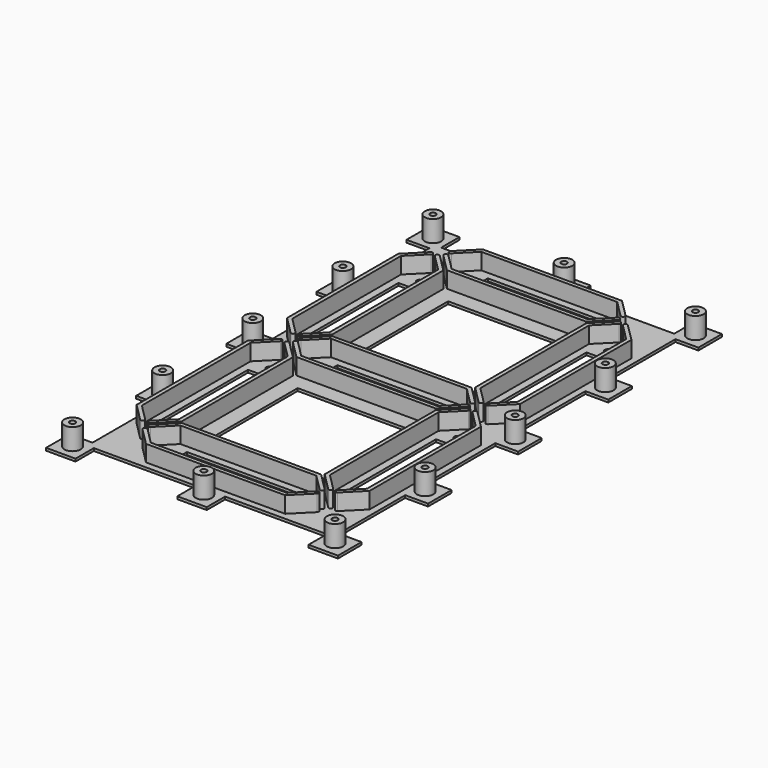
from build123d import *

# Parameters (mm, degrees)
SKETCH004_R     = 1.75
SKETCH004_W     = 13.75
SKETCH004_H     = 68
SKETCH004_W_2   = 68
SKETCH004_H_2   = 13.75
PAD_DEPTH       = 14.6
SKETCH005_W     = 178.5
SKETCH005_H     = 293.5
SKETCH005_R     = 5
POCKET_DEPTH    = 13
SKETCH006_W     = 142.5
SKETCH006_H     = 257.5
POCKET001_DEPTH = 3


with BuildPart() as part:
    # Sketch004 → Pad (new body)
    with BuildSketch(Plane.XY):
        Polygon((-71.25, 132.75), (-71.25, 146.75), (-89.25, 146.75), (-89.25, 128.75), (-75.25, 128.75), (-75.25, 77.875), (-89.25, 77.875), (-89.25, 59.875), (-75.25, 59.875), (-75.25, 9), (-89.25, 9), (-89.25, -9), (-75.25, -9), (-75.25, -59.875), (-89.25, -59.875), (-89.25, -77.875), (-75.25, -77.875), (-75.25, -128.75), (-89.25, -128.75), (-89.25, -146.75), (-71.25, -146.75), (-71.25, -132.75), (-9, -132.75), (-9, -146.75), (9, -146.75), (9, -132.75), (71.25, -132.75), (71.25, -146.75), (89.25, -146.75), (89.25, -128.75), (75.25, -128.75), (75.25, -77.875), (89.25, -77.875), (89.25, -59.875), (75.25, -59.875), (75.25, -9), (89.25, -9), (89.25, 9), (75.25, 9), (75.25, 59.875), (89.25, 59.875), (89.25, 77.875), (75.25, 77.875), (75.25, 128.75), (89.25, 128.75), (89.25, 146.75), (71.25, 146.75), (71.25, 132.75), (9, 132.75), (9, 146.75), (-9, 146.75), (-9, 132.75), align=None)
        with Locations((-80.25, 137.75)):
            Circle(SKETCH004_R, mode=Mode.SUBTRACT)
        with Locations((57.5, 99)):
            Circle(SKETCH004_R, mode=Mode.SUBTRACT)
        with Locations((80.25, 68.875)):
            Circle(SKETCH004_R, mode=Mode.SUBTRACT)
        with Locations((57.5, 16)):
            Circle(SKETCH004_R, mode=Mode.SUBTRACT)
        with Locations((80.25, 0)):
            Circle(SKETCH004_R, mode=Mode.SUBTRACT)
        with Locations((57.5, -16)):
            Circle(SKETCH004_R, mode=Mode.SUBTRACT)
        with Locations((-41.5, 115)):
            Circle(SKETCH004_R, mode=Mode.SUBTRACT)
        with Locations((80.25, 137.75)):
            Circle(SKETCH004_R, mode=Mode.SUBTRACT)
        with Locations((-41.5, -115)):
            Circle(SKETCH004_R, mode=Mode.SUBTRACT)
        with Locations((0, -137.75)):
            Circle(SKETCH004_R, mode=Mode.SUBTRACT)
        with Locations((80.25, -137.75)):
            Circle(SKETCH004_R, mode=Mode.SUBTRACT)
        with Locations((80.25, -68.875)):
            Circle(SKETCH004_R, mode=Mode.SUBTRACT)
        with Locations((0, 137.75)):
            Circle(SKETCH004_R, mode=Mode.SUBTRACT)
        with Locations((-80.25, -68.875)):
            Circle(SKETCH004_R, mode=Mode.SUBTRACT)
        with Locations((-80.25, -137.75)):
            Circle(SKETCH004_R, mode=Mode.SUBTRACT)
        with Locations((-57.5, -99)):
            Circle(SKETCH004_R, mode=Mode.SUBTRACT)
        with Locations((41.5, -115)):
            Circle(SKETCH004_R, mode=Mode.SUBTRACT)
        with Locations((57.5, -99)):
            Circle(SKETCH004_R, mode=Mode.SUBTRACT)
        with Locations((-57.5, -16)):
            Circle(SKETCH004_R, mode=Mode.SUBTRACT)
        with Locations((-80.25, 0)):
            Circle(SKETCH004_R, mode=Mode.SUBTRACT)
        with Locations((-80.25, 68.875)):
            Circle(SKETCH004_R, mode=Mode.SUBTRACT)
        with Locations((-57.5, 99)):
            Circle(SKETCH004_R, mode=Mode.SUBTRACT)
        with Locations((41.5, 115)):
            Circle(SKETCH004_R, mode=Mode.SUBTRACT)
        with Locations((-41.5, 0)):
            Circle(SKETCH004_R, mode=Mode.SUBTRACT)
        with Locations((41.5, 0)):
            Circle(SKETCH004_R, mode=Mode.SUBTRACT)
        with Locations((-57.5, 16)):
            Circle(SKETCH004_R, mode=Mode.SUBTRACT)
        with Locations((-57.5, 57.5)):
            Rectangle(SKETCH004_W, SKETCH004_H, mode=Mode.SUBTRACT)
        with Locations((0, 115)):
            Rectangle(SKETCH004_W_2, SKETCH004_H_2, mode=Mode.SUBTRACT)
        with Locations((57.5, 57.5)):
            Rectangle(SKETCH004_W, SKETCH004_H, mode=Mode.SUBTRACT)
        Rectangle(SKETCH004_W_2, SKETCH004_H_2, mode=Mode.SUBTRACT)
        with Locations((-57.5, -57.5)):
            Rectangle(SKETCH004_W, SKETCH004_H, mode=Mode.SUBTRACT)
        with Locations((57.5, -57.5)):
            Rectangle(SKETCH004_W, SKETCH004_H, mode=Mode.SUBTRACT)
        with Locations((0, -115)):
            Rectangle(SKETCH004_W_2, SKETCH004_H_2, mode=Mode.SUBTRACT)
        with Locations((0, 57.5)):
            Rectangle(SKETCH004_W_2, SKETCH004_H, mode=Mode.SUBTRACT)
        with Locations((0, -57.5)):
            Rectangle(SKETCH004_W_2, SKETCH004_H, mode=Mode.SUBTRACT)
    extrude(amount=PAD_DEPTH)

    # Sketch005 (on Face116 of Pad) → Pocket (cut)
    with BuildSketch(Plane.XY.offset(14.6)):
        Rectangle(SKETCH005_W, SKETCH005_H)
        with Locations((-80.25, 137.75)):
            Circle(SKETCH005_R, mode=Mode.SUBTRACT)
        with Locations((80.25, 137.75)):
            Circle(SKETCH005_R, mode=Mode.SUBTRACT)
        with Locations((0, 137.75)):
            Circle(SKETCH005_R, mode=Mode.SUBTRACT)
        with Locations((-80.25, 0)):
            Circle(SKETCH005_R, mode=Mode.SUBTRACT)
        with Locations((-80.25, -137.75)):
            Circle(SKETCH005_R, mode=Mode.SUBTRACT)
        with Locations((-80.25, -68.875)):
            Circle(SKETCH005_R, mode=Mode.SUBTRACT)
        with Locations((80.25, 68.875)):
            Circle(SKETCH005_R, mode=Mode.SUBTRACT)
        with Locations((0, -137.75)):
            Circle(SKETCH005_R, mode=Mode.SUBTRACT)
        with Locations((80.25, -68.875)):
            Circle(SKETCH005_R, mode=Mode.SUBTRACT)
        with Locations((80.25, -137.75)):
            Circle(SKETCH005_R, mode=Mode.SUBTRACT)
        with Locations((80.25, 0)):
            Circle(SKETCH005_R, mode=Mode.SUBTRACT)
        with Locations((-80.25, 68.875)):
            Circle(SKETCH005_R, mode=Mode.SUBTRACT)
        with BuildLine():
            Line((58.7, -5.8), (68.85, -15.95))
            Line((68.85, -15.95), (68.85, -99.05))
            Line((68.85, -99.05), (58.7, -109.2))
            ThreePointArc((58.7, -109.2), (58.7, -110.897056), (60.397056, -110.897056))
            Line((71.25, -100.044113), (60.397056, -110.897056))
            Line((71.25, -14.955887), (71.25, -100.044113))
            Line((60.397056, -4.102944), (71.25, -14.955887))
            ThreePointArc((60.397056, -4.102944), (58.7, -4.102944), (58.7, -5.8))
        make_face(mode=Mode.SUBTRACT)
        with BuildLine():
            Line((56.3, -5.8), (46.15, -15.95))
            Line((46.15, -15.95), (46.15, -99.05))
            Line((46.15, -99.05), (56.3, -109.2))
            ThreePointArc((54.602944, -110.897056), (56.3, -110.897056), (56.3, -109.2))
            Line((54.602944, -110.897056), (43.75, -100.044113))
            Line((43.75, -100.044113), (43.75, -14.955887))
            Line((43.75, -14.955887), (54.602944, -4.102944))
            ThreePointArc((56.3, -5.8), (56.3, -4.102944), (54.602944, -4.102944))
        make_face(mode=Mode.SUBTRACT)
        with BuildLine():
            Line((-51.7, 116.2), (-41.55, 126.35))
            Line((-41.55, 126.35), (41.55, 126.35))
            Line((41.55, 126.35), (51.7, 116.2))
            ThreePointArc((51.7, 116.2), (53.397056, 116.2), (53.397056, 117.897056))
            Line((42.544113, 128.75), (53.397056, 117.897056))
            Line((-42.544113, 128.75), (42.544113, 128.75))
            Line((-53.397056, 117.897056), (-42.544113, 128.75))
            ThreePointArc((-53.397056, 117.897056), (-53.397056, 116.2), (-51.7, 116.2))
        make_face(mode=Mode.SUBTRACT)
        with BuildLine():
            Line((-51.7, 113.8), (-41.55, 103.65))
            Line((-41.55, 103.65), (41.55, 103.65))
            Line((41.55, 103.65), (51.7, 113.8))
            ThreePointArc((53.397056, 112.102944), (53.397056, 113.8), (51.7, 113.8))
            Line((53.397056, 112.102944), (42.544113, 101.25))
            Line((42.544113, 101.25), (-42.544113, 101.25))
            Line((-42.544113, 101.25), (-53.397056, 112.102944))
            ThreePointArc((-51.7, 113.8), (-53.397056, 113.8), (-53.397056, 112.102944))
        make_face(mode=Mode.SUBTRACT)
        with BuildLine():
            Line((-51.7, 1.2), (-41.55, 11.35))
            Line((-41.55, 11.35), (41.55, 11.35))
            Line((41.55, 11.35), (51.7, 1.2))
            ThreePointArc((51.7, 1.2), (53.397056, 1.2), (53.397056, 2.897056))
            Line((42.544113, 13.75), (53.397056, 2.897056))
            Line((-42.544113, 13.75), (42.544113, 13.75))
            Line((-53.397056, 2.897056), (-42.544113, 13.75))
            ThreePointArc((-53.397056, 2.897056), (-53.397056, 1.2), (-51.7, 1.2))
        make_face(mode=Mode.SUBTRACT)
        with BuildLine():
            Line((-51.7, -1.2), (-41.55, -11.35))
            Line((-41.55, -11.35), (41.55, -11.35))
            Line((41.55, -11.35), (51.7, -1.2))
            ThreePointArc((53.397056, -2.897056), (53.397056, -1.2), (51.7, -1.2))
            Line((53.397056, -2.897056), (42.544113, -13.75))
            Line((42.544113, -13.75), (-42.544113, -13.75))
            Line((-42.544113, -13.75), (-53.397056, -2.897056))
            ThreePointArc((-51.7, -1.2), (-53.397056, -1.2), (-53.397056, -2.897056))
        make_face(mode=Mode.SUBTRACT)
        with BuildLine():
            Line((-51.7, -113.8), (-41.55, -103.65))
            Line((-41.55, -103.65), (41.55, -103.65))
            Line((41.55, -103.65), (51.7, -113.8))
            ThreePointArc((51.7, -113.8), (53.397056, -113.8), (53.397056, -112.102944))
            Line((42.544113, -101.25), (53.397056, -112.102944))
            Line((-42.544113, -101.25), (42.544113, -101.25))
            Line((-53.397056, -112.102944), (-42.544113, -101.25))
            ThreePointArc((-53.397056, -112.102944), (-53.397056, -113.8), (-51.7, -113.8))
        make_face(mode=Mode.SUBTRACT)
        with BuildLine():
            Line((-51.7, -116.2), (-41.55, -126.35))
            Line((-41.55, -126.35), (41.55, -126.35))
            Line((41.55, -126.35), (51.7, -116.2))
            ThreePointArc((53.397056, -117.897056), (53.397056, -116.2), (51.7, -116.2))
            Line((53.397056, -117.897056), (42.544113, -128.75))
            Line((42.544113, -128.75), (-42.544113, -128.75))
            Line((-42.544113, -128.75), (-53.397056, -117.897056))
            ThreePointArc((-51.7, -116.2), (-53.397056, -116.2), (-53.397056, -117.897056))
        make_face(mode=Mode.SUBTRACT)
        with BuildLine():
            Line((-56.3, -5.8), (-46.15, -15.95))
            Line((-46.15, -15.95), (-46.15, -99.05))
            Line((-46.15, -99.05), (-56.3, -109.2))
            ThreePointArc((-56.3, -109.2), (-56.3, -110.897056), (-54.602944, -110.897056))
            Line((-43.75, -100.044113), (-54.602944, -110.897056))
            Line((-43.75, -14.955887), (-43.75, -100.044113))
            Line((-54.602944, -4.102944), (-43.75, -14.955887))
            ThreePointArc((-54.602944, -4.102944), (-56.3, -4.102944), (-56.3, -5.8))
        make_face(mode=Mode.SUBTRACT)
        with BuildLine():
            Line((-58.7, -5.8), (-68.85, -15.95))
            Line((-68.85, -15.95), (-68.85, -99.05))
            Line((-68.85, -99.05), (-58.7, -109.2))
            ThreePointArc((-60.397056, -110.897056), (-58.7, -110.897056), (-58.7, -109.2))
            Line((-60.397056, -110.897056), (-71.25, -100.044113))
            Line((-71.25, -100.044113), (-71.25, -14.955887))
            Line((-71.25, -14.955887), (-60.397056, -4.102944))
            ThreePointArc((-58.7, -5.8), (-58.7, -4.102944), (-60.397056, -4.102944))
        make_face(mode=Mode.SUBTRACT)
        with BuildLine():
            Line((-56.3, 109.2), (-46.15, 99.05))
            Line((-46.15, 99.05), (-46.15, 15.95))
            Line((-46.15, 15.95), (-56.3, 5.8))
            ThreePointArc((-56.3, 5.8), (-56.3, 4.102944), (-54.602944, 4.102944))
            Line((-43.75, 14.955887), (-54.602944, 4.102944))
            Line((-43.75, 100.044113), (-43.75, 14.955887))
            Line((-54.602944, 110.897056), (-43.75, 100.044113))
            ThreePointArc((-54.602944, 110.897056), (-56.3, 110.897056), (-56.3, 109.2))
        make_face(mode=Mode.SUBTRACT)
        with BuildLine():
            Line((-58.7, 109.2), (-68.85, 99.05))
            Line((-68.85, 99.05), (-68.85, 15.95))
            Line((-68.85, 15.95), (-58.7, 5.8))
            ThreePointArc((-60.397056, 4.102944), (-58.7, 4.102944), (-58.7, 5.8))
            Line((-60.397056, 4.102944), (-71.25, 14.955887))
            Line((-71.25, 14.955887), (-71.25, 100.044113))
            Line((-71.25, 100.044113), (-60.397056, 110.897056))
            ThreePointArc((-58.7, 109.2), (-58.7, 110.897056), (-60.397056, 110.897056))
        make_face(mode=Mode.SUBTRACT)
        with BuildLine():
            Line((58.7, 109.2), (68.85, 99.05))
            Line((68.85, 99.05), (68.85, 15.95))
            Line((68.85, 15.95), (58.7, 5.8))
            ThreePointArc((58.7, 5.8), (58.7, 4.102944), (60.397056, 4.102944))
            Line((71.25, 14.955887), (60.397056, 4.102944))
            Line((71.25, 100.044113), (71.25, 14.955887))
            Line((60.397056, 110.897056), (71.25, 100.044113))
            ThreePointArc((60.397056, 110.897056), (58.7, 110.897056), (58.7, 109.2))
        make_face(mode=Mode.SUBTRACT)
        with BuildLine():
            Line((56.3, 109.2), (46.15, 99.05))
            Line((46.15, 99.05), (46.15, 15.95))
            Line((46.15, 15.95), (56.3, 5.8))
            ThreePointArc((54.602944, 4.102944), (56.3, 4.102944), (56.3, 5.8))
            Line((54.602944, 4.102944), (43.75, 14.955887))
            Line((43.75, 14.955887), (43.75, 100.044113))
            Line((43.75, 100.044113), (54.602944, 110.897056))
            ThreePointArc((56.3, 109.2), (56.3, 110.897056), (54.602944, 110.897056))
        make_face(mode=Mode.SUBTRACT)
    extrude(amount=-POCKET_DEPTH, mode=Mode.SUBTRACT)

    # Sketch006 (on Face116 of Pad) → Pocket001 (cut)
    with BuildSketch(Plane.XY.offset(14.6)):
        Rectangle(SKETCH006_W, SKETCH006_H)
    extrude(amount=-POCKET001_DEPTH, mode=Mode.SUBTRACT)


solid = part.part
